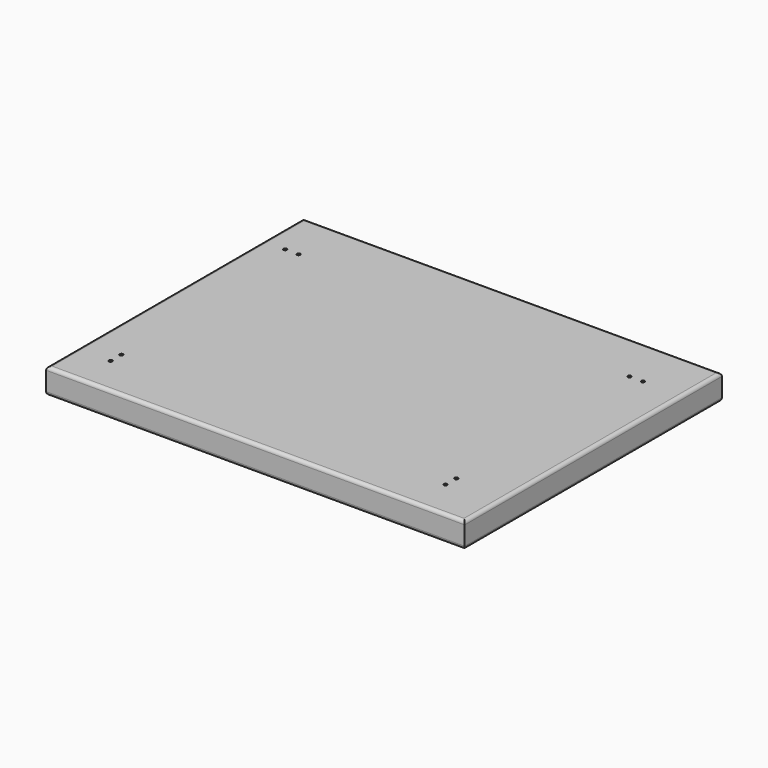
from build123d import *

# Parameters (mm, degrees)
F0_W     = 625
F0_H     = 480
F1_DEPTH = 38
F2_R     = 5
F3_R     = 2.5
F4_DEPTH = 15


with BuildPart() as f1:
    # F0 (on Top) → F1 (new body)
    with BuildSketch(Plane.XY):
        with Locations((3.649522, 142.611136)):
            Rectangle(F0_W, F0_H)
    extrude(amount=F1_DEPTH)

    # F2
    f2_edges = [f1.edges().sort_by_distance(p)[0] for p in [
        (316.149522, 142.611136, 38),
        (3.649522, 382.611136, 38),
        (-308.850478, 142.611136, 38),
        (3.649522, -97.388864, 38),
        (316.149522, 142.611136, 0),
        (3.649522, 382.611136, 0),
        (-308.850478, 142.611136, 0),
        (3.649522, -97.388864, 0),
    ]]
    fillet(f2_edges, radius=F2_R)

    # F3 (on face) → F4 (cut)
    with BuildSketch(Plane.XY.offset(38)):
        with Locations((-275.850478, 307.611136)):
            Circle(F3_R)
        with Locations((-255.850478, 307.611136)):
            Circle(F3_R)
        with Locations((-258.850478, -39.388864)):
            Circle(F3_R)
        with Locations((-258.850478, -19.388864)):
            Circle(F3_R)
        with Locations((238.149522, 307.611136)):
            Circle(F3_R)
        with Locations((258.149522, 307.611136)):
            Circle(F3_R)
        with Locations((241.149522, -19.388864)):
            Circle(F3_R)
        with Locations((241.149522, -39.388864)):
            Circle(F3_R)
    extrude(amount=-F4_DEPTH, mode=Mode.SUBTRACT)


solid = f1.part
